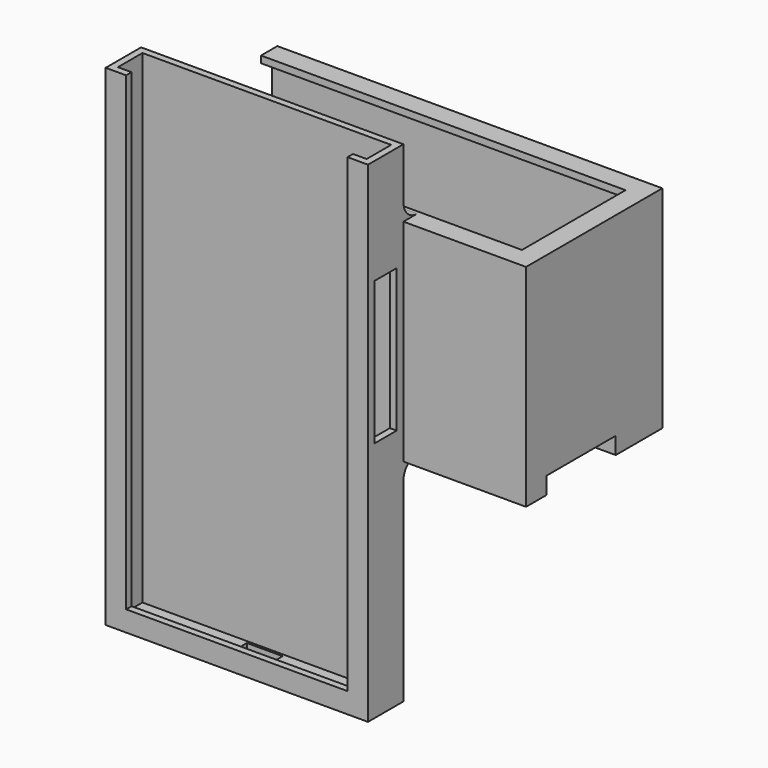
from build123d import *

# Parameters (mm, degrees)
F0_W            = 77
F0_H            = 144
F1_DEPTH        = 13
F3_DEPTH        = 142
F4_W            = 65
F4_H            = 2
F5_DEPTH        = 4
F6_W            = 10.5
F6_H            = 7.5
F7_DEPTH        = 25
F8_W            = 8.0420786627
F8_H            = 42
F9_DEPTH        = 25
F10_W           = 77
F10_H           = 54
F10_W_2         = 36
F11_DEPTH       = 50
F13_DEPTH       = 111
F14_W           = 38
F14_H           = 2
F15_DEPTH       = 4
F16_DEPTH       = 8
F17_W           = 50
F17_H           = 25.4
F18_DEPTH       = 5
F20_D           = 6.35
F20_DEPTH       = 8
F20_CBORE_D     = 14
F20_CBORE_DEPTH = 3.175
F20_TIP         = 1.9077324654
F21_R           = 5


with BuildPart() as f1:
    # F0 (on Front) → F1 (new body)
    with BuildSketch(Plane.XZ):
        Rectangle(F0_W, F0_H)
    extrude(amount=F1_DEPTH)

    # F2 (on face) → F3 (cut)
    with BuildSketch(Plane.XY.offset(72)):
        Polygon((-32.5, -11), (-32.5, -13), (32.5, -13), (32.5, -11), (36.5, -11), (36.5, -2), (-36.5, -2), (-36.5, -11), align=None)
    extrude(amount=-F3_DEPTH, mode=Mode.SUBTRACT)

    # F4 (on face) → F5 (join)
    with BuildSketch(Plane.XY.offset(-70)):
        with Locations((0, -12)):
            Rectangle(F4_W, F4_H)
    extrude(amount=F5_DEPTH)

    # F6 (on face) → F7 (cut)
    with BuildSketch(Plane(origin=(0, 0, -72), x_dir=(1, 0, 0), z_dir=(0, 0, -1))):
        with Locations((0, 6.5)):
            Rectangle(F6_W, F6_H)
    extrude(amount=-F7_DEPTH, mode=Mode.SUBTRACT)

    # F8 (on face) → F9 (cut)
    with BuildSketch(Plane.YZ.offset(38.5)):
        with Locations((-6.5, 20)):
            Rectangle(F8_W, F8_H)
    extrude(amount=-F9_DEPTH, mode=Mode.SUBTRACT)

    # F10 (on face) → F11 (join)
    with BuildSketch(Plane(origin=(0, 0, 0), x_dir=(-1, 0, 0), z_dir=(0, 1, 0))):
        with Locations((0, 25)):
            Rectangle(F10_W, F10_H)
        with Locations((-56.5, 25)):
            Rectangle(F10_W_2, F10_H)
    extrude(amount=F11_DEPTH)

    # F12 (on face) → F13 (cut)
    with BuildSketch(Plane(origin=(-38.5, 0, 0), x_dir=(0, -1, 0), z_dir=(-1, 0, 0))):
        Polygon((-6, 50), (-6, 52), (-44, 52), (-44, 50), (-48, 50), (-48, 2), (-2, 2), (-2, 50), align=None)
    extrude(amount=-F13_DEPTH, mode=Mode.SUBTRACT)

    # F14 (on face) → F15 (join)
    with BuildSketch(Plane(origin=(72.5, 0, 0), x_dir=(0, -1, 0), z_dir=(-1, 0, 0))):
        with Locations((-25, 51)):
            Rectangle(F14_W, F14_H)
    extrude(amount=F15_DEPTH)

    # F16 (add): a face of the model
    f16_faces = [f1.faces().sort_by_distance(p)[0] for p in [
        (18, 25, -2),
    ]]
    extrude(f16_faces, amount=F16_DEPTH)

    # F17 (on face) → F18 (cut)
    with BuildSketch(Plane(origin=(0, 0, -10), x_dir=(1, 0, 0), z_dir=(0, 0, -1))):
        with Locations((49.5, -20.2)):
            Rectangle(F17_W, F17_H)
    extrude(amount=-F18_DEPTH, mode=Mode.SUBTRACT)

    # F20
    with Locations(Plane.XY.offset(2)):
        with Locations((62.5, 20.2), (37.5, 20.2)):
            CounterBoreHole(F20_D / 2, F20_CBORE_D / 2, F20_CBORE_DEPTH, depth=F20_DEPTH)
            with Locations((0, 0, -(F20_DEPTH + F20_TIP / 2))):  # 118° drill point
                Cone(0, F20_D / 2, F20_TIP, mode=Mode.SUBTRACT)

    # F21
    f21_edges = [f1.edges().sort_by_distance(p)[0] for p in [
        (0, 0, -10),
        (0, 0, 52),
    ]]
    fillet(f21_edges, radius=F21_R)


solid = f1.part
